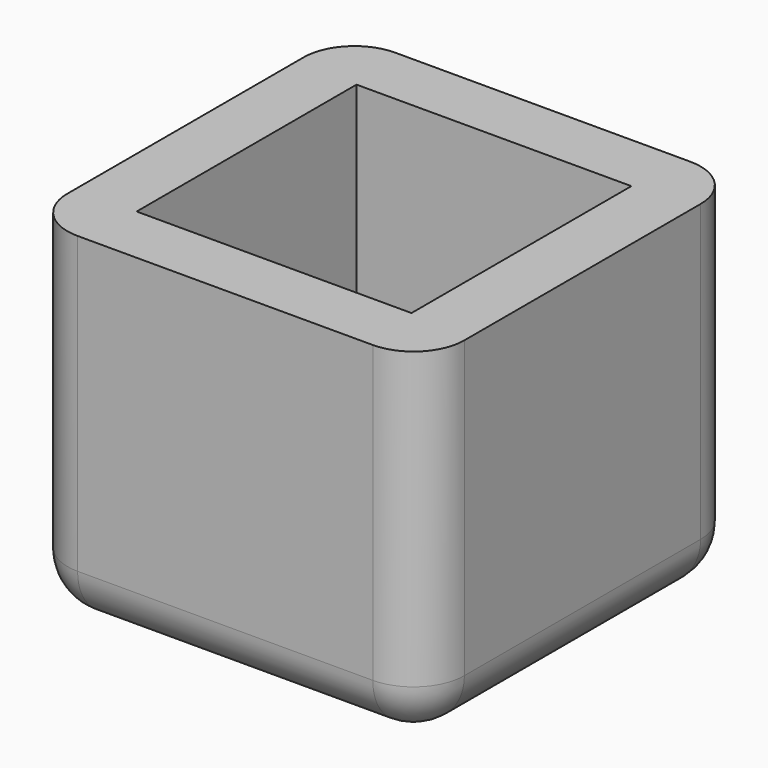
from build123d import *

# Parameters (mm, degrees)
F0_W     = 195
F0_H     = 195
F1_DEPTH = 170
F3_R     = 25
F4_T     = -30
F2_R     = 4.5
F5_DEPTH = 195
F6_DEPTH = 40


with BuildPart() as f1:
    # F0 (on Top) → F1 (new body)
    with BuildSketch(Plane.XY):
        Rectangle(F0_W, F0_H)
    extrude(amount=F1_DEPTH)

    # F3
    f3_edges = [f1.edges().sort_by_distance(p)[0] for p in [
        (97.5, 0, 0),
        (0, 97.5, 0),
        (-97.5, 0, 0),
        (0, -97.5, 0),
        (97.5, 97.5, 85),
        (-97.5, 97.5, 85),
        (-97.5, -97.5, 85),
        (97.5, -97.5, 85),
    ]]
    fillet(f3_edges, radius=F3_R)

    # F4
    f4_openings = [f1.faces().sort_by_distance(p)[0] for p in [
        (0, 0, 170),
    ]]
    offset(amount=F4_T, openings=f4_openings)

    # F2 (on Right) → F5 (cut)
    with BuildSketch(Plane.YZ):
        with Locations((-25, 12.5)):
            Circle(F2_R)
        with Locations((25, 12.5)):
            Circle(F2_R)
    extrude(amount=-F5_DEPTH, mode=Mode.SUBTRACT)

    # F2 (on Right) → F6 (cut)
    with BuildSketch(Plane.YZ):
        with Locations((-25, 12.5)):
            Circle(F2_R)
        with Locations((25, 12.5)):
            Circle(F2_R)
    extrude(amount=F6_DEPTH, mode=Mode.SUBTRACT)


solid = f1.part
